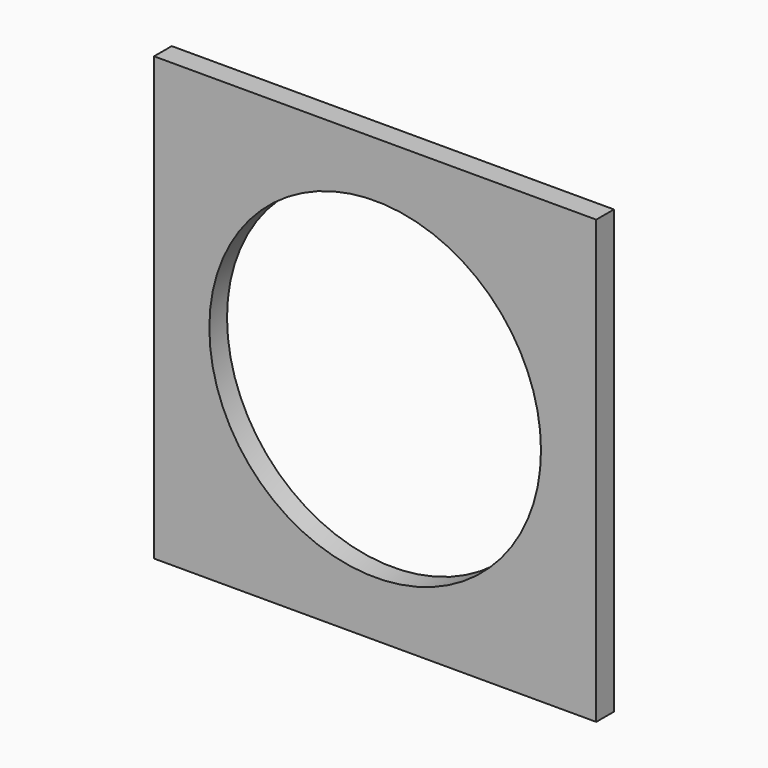
from build123d import *

# Parameters (mm, degrees)
F0_W     = 800
F0_H     = 800
F1_DEPTH = 40
F2_R     = 300
F3_DEPTH = 40


with BuildPart() as f1:
    # F0 (on Front) → F1 (new body)
    with BuildSketch(Plane.XZ):
        Rectangle(F0_W, F0_H)
    extrude(amount=-F1_DEPTH)

    # F2 (on face) → F3 (cut)
    with BuildSketch(Plane.XZ):
        Circle(F2_R)
    extrude(amount=-F3_DEPTH, mode=Mode.SUBTRACT)


solid = f1.part
